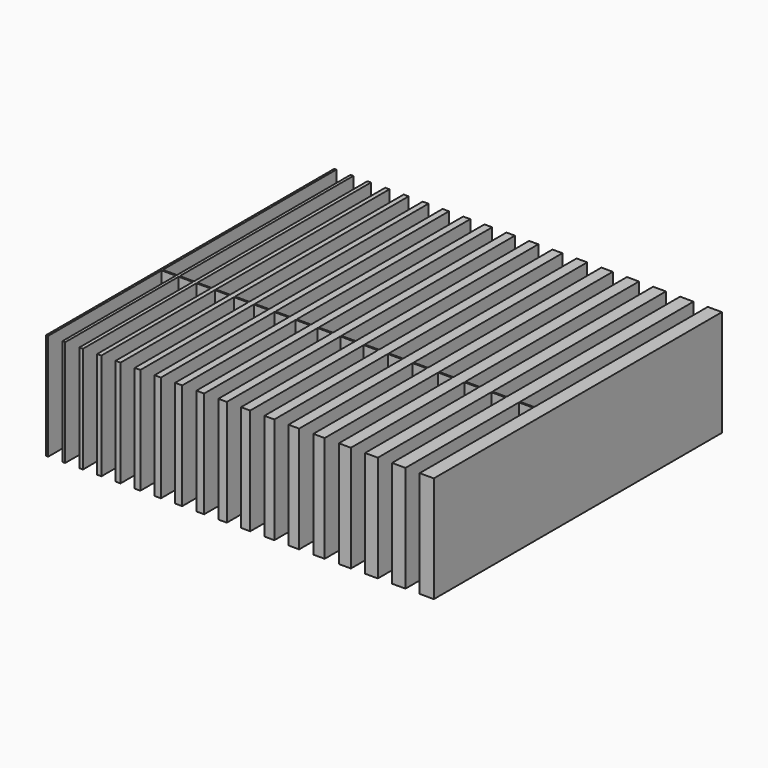
from build123d import *

# Parameters (mm, degrees)
F1_DEPTH = 15


with BuildPart() as f1:
    # F0 (on Top) → F1 (new body)
    with BuildSketch(Plane.XY):
        Polygon((-23.1, 25.4), (-23.4, 25.4), (-23.4, -25.4), (-23.1, -25.4), (-23.1, -5.4), (-21.1, -5.4), (-21.1, -25.4), (-20.7, -25.4), (-20.7, -5.4), (-18.7, -5.4), (-18.7, -25.4), (-18.2, -25.4), (-18.2, -5.4), (-16.2, -5.4), (-16.2, -25.4), (-15.6, -25.4), (-15.6, -5.4), (-13.6, -5.4), (-13.6, -25.4), (-12.9, -25.4), (-12.9, -5.4), (-10.9, -5.4), (-10.9, -25.4), (-10.1, -25.4), (-10.1, -5.4), (-8.1, -5.4), (-8.1, -25.4), (-7.2, -25.4), (-7.2, -5.4), (-5.2, -5.4), (-5.2, -25.4), (-4.2, -25.4), (-4.2, -5.4), (-2.2, -5.4), (-2.2, -25.4), (-1.1, -25.4), (-1.1, -5.4), (0.9, -5.4), (0.9, -25.4), (2.1, -25.4), (2.1, -5.4), (4.1, -5.4), (4.1, -25.4), (5.4, -25.4), (5.4, -5.4), (7.4, -5.4), (7.4, -25.4), (8.8, -25.4), (8.8, -5.4), (10.8, -5.4), (10.8, -25.4), (12.3, -25.4), (12.3, -5.4), (14.3, -5.4), (14.3, -25.4), (15.9, -25.4), (15.9, -5.4), (17.9, -5.4), (17.9, -25.4), (19.6, -25.4), (19.6, -5.4), (21.6, -5.4), (21.6, -25.4), (23.4, -25.4), (23.4, -5.4), (25.4, -5.4), (25.4, -25.4), (27.3, -25.4), (27.3, -5.4), (29.3, -5.4), (29.3, -25.4), (31.3, -25.4), (31.3, -5.4), (31.3, -5.2), (31.3, 25.4), (29.3, 25.4), (29.3, -5.2), (27.3, -5.2), (27.3, 25.4), (25.4, 25.4), (25.4, -5.2), (23.4, -5.2), (23.4, 25.4), (21.6, 25.4), (21.6, -5.2), (19.6, -5.2), (19.6, 25.4), (17.9, 25.4), (17.9, -5.2), (15.9, -5.2), (15.9, 25.4), (14.3, 25.4), (14.3, -5.2), (12.3, -5.2), (12.3, 25.4), (10.8, 25.4), (10.8, -5.2), (8.8, -5.2), (8.8, 25.4), (7.4, 25.4), (7.4, -5.2), (5.4, -5.2), (5.4, 25.4), (4.1, 25.4), (4.1, -5.2), (2.1, -5.2), (2.1, 25.4), (0.9, 25.4), (0.9, -5.2), (-1.1, -5.2), (-1.1, 25.4), (-2.2, 25.4), (-2.2, -5.2), (-4.2, -5.2), (-4.2, 25.4), (-5.2, 25.4), (-5.2, -5.2), (-7.2, -5.2), (-7.2, 25.4), (-8.1, 25.4), (-8.1, -5.2), (-10.1, -5.2), (-10.1, 25.4), (-10.9, 25.4), (-10.9, -5.2), (-12.9, -5.2), (-12.9, 25.4), (-13.6, 25.4), (-13.6, -5.2), (-15.6, -5.2), (-15.6, 25.4), (-16.2, 25.4), (-16.2, -5.2), (-18.2, -5.2), (-18.2, 25.4), (-18.7, 25.4), (-18.7, -5.2), (-20.7, -5.2), (-20.7, 25.4), (-21.1, 25.4), (-21.1, -5.2), (-23.1, -5.2), align=None)
    extrude(amount=F1_DEPTH)


solid = f1.part
